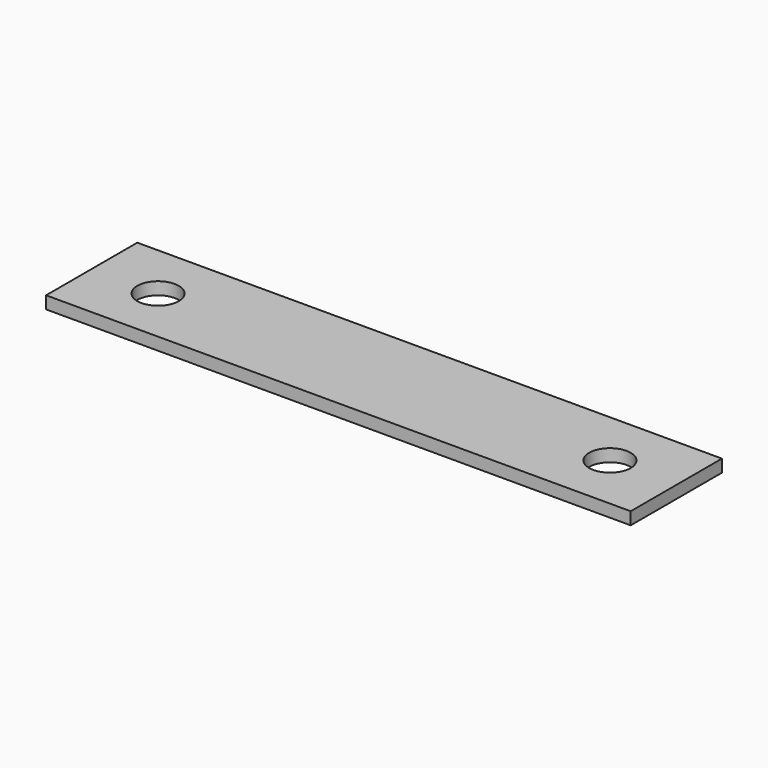
from build123d import *

# Parameters (mm, degrees)
F0_W     = 141
F0_H     = 27.5
F1_DEPTH = 1.5
F2_R     = 5
F3_DEPTH = 3


with BuildPart() as f1:
    # F0 (on Top) → F1 (new body, symmetric)
    with BuildSketch(Plane.XY):
        Rectangle(F0_W, F0_H)
    extrude(amount=F1_DEPTH, both=True)

    # F2 (on face) → F3 (cut, through all)
    with BuildSketch(Plane.XY.offset(1.5)):
        with Locations((54.5, 0)):
            Circle(F2_R)
        with Locations((-54.5, 0)):
            Circle(F2_R)
    extrude(amount=-F3_DEPTH, mode=Mode.SUBTRACT)


solid = f1.part
